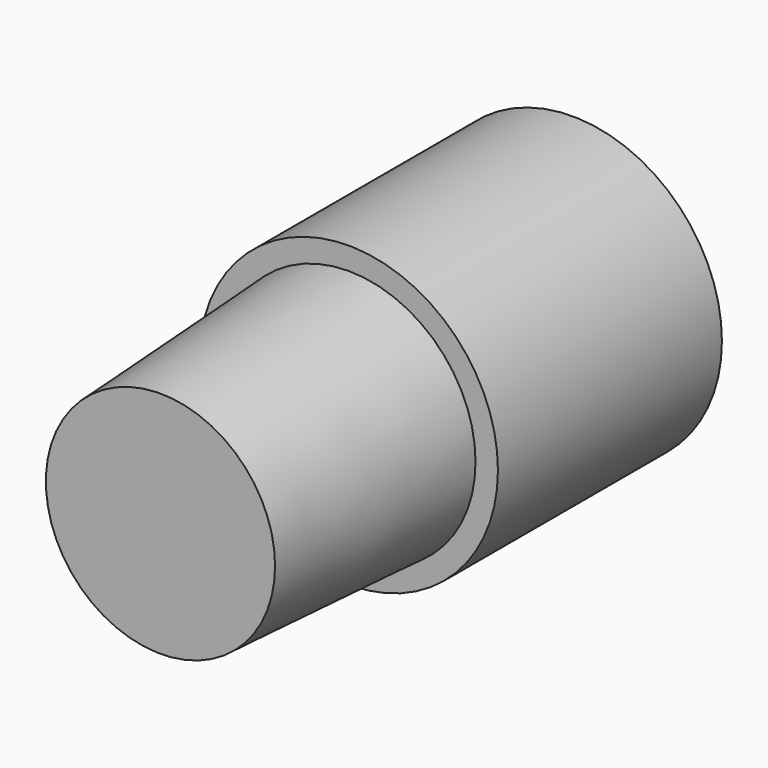
from build123d import *

# Parameters (mm, degrees)
F0_R     = 40
F1_DEPTH = 75
F2_R     = 34
F3_DEPTH = 63
F3_TAPER = 3
F4_D     = 12
F4_DEPTH = 25
F4_TIP   = 3.6051637142


with BuildPart() as f1:
    # F0 (on Front) → F1 (new body)
    with BuildSketch(Plane.XZ):
        Circle(F0_R)
    extrude(amount=F1_DEPTH)

    # F2 (on face) → F3 (join)
    with BuildSketch(Plane.XZ.offset(75)):
        Circle(F2_R)
    extrude(amount=F3_DEPTH, taper=F3_TAPER)

    # F4
    with Locations(Plane(origin=(0, 0, 0), x_dir=(1, 0, 0), z_dir=(0, 1, 0))):
        with Locations((0, 0)):
            Hole(F4_D / 2, depth=F4_DEPTH)
            with Locations((0, 0, -(F4_DEPTH + F4_TIP / 2))):  # 118° drill point
                Cone(0, F4_D / 2, F4_TIP, mode=Mode.SUBTRACT)


solid = f1.part
